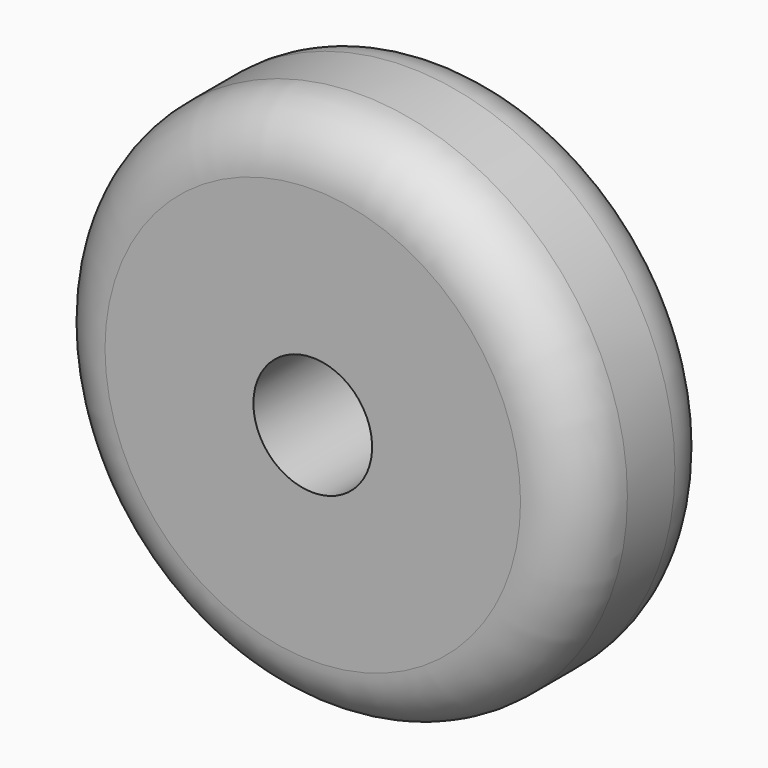
from build123d import *

# Parameters (mm, degrees)
F0_R     = 225
F1_DEPTH = 150
F2_R     = 50
F4_D     = 100


with BuildPart() as f1:
    # F0 (on Front) → F1 (new body)
    with BuildSketch(Plane.XZ):
        Circle(F0_R)
    extrude(amount=F1_DEPTH)

    # F2
    f2_edges = [f1.edges().sort_by_distance(p)[0] for p in [
        (-225, -150, 0),
        (-225, 0, 0),
    ]]
    fillet(f2_edges, radius=F2_R)

    # F4 (through all)
    with Locations(Plane.XZ.offset(150)):
        with Locations((0, 0)):
            Hole(F4_D / 2)


solid = f1.part
